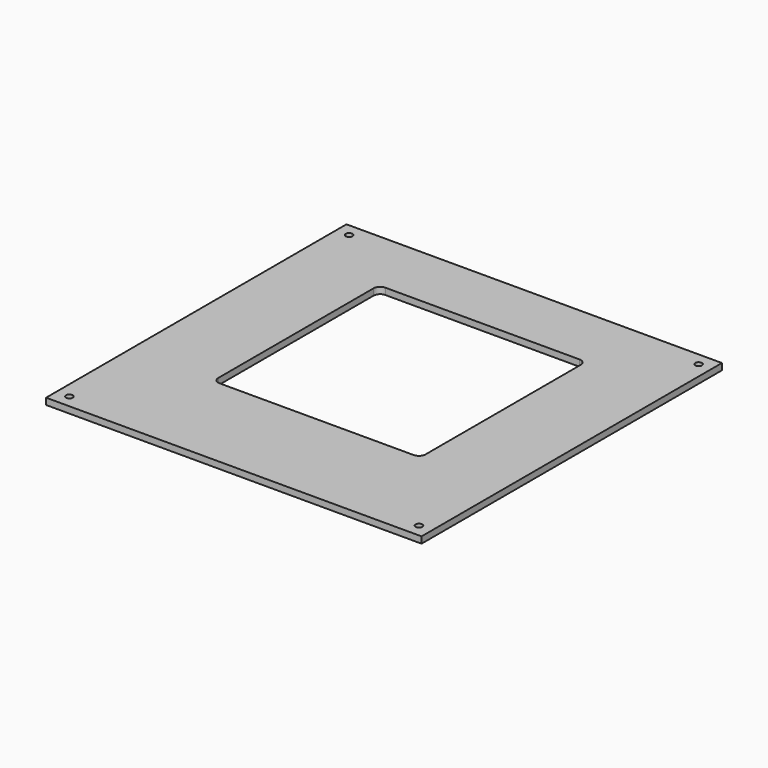
from build123d import *

# Parameters (mm, degrees)
F0_W     = 290
F0_H     = 290
F0_R     = 2.6
F1_DEPTH = 5
F3_DEPTH = 5.001


with BuildPart() as f1:
    # F0 (on Top) → F1 (new body)
    with BuildSketch(Plane.XY):
        Rectangle(F0_W, F0_H)
        with Locations((-135, -135)):
            Circle(F0_R, mode=Mode.SUBTRACT)
        with Locations((135, -135)):
            Circle(F0_R, mode=Mode.SUBTRACT)
        with Locations((-135, 135)):
            Circle(F0_R, mode=Mode.SUBTRACT)
        with Locations((135, 135)):
            Circle(F0_R, mode=Mode.SUBTRACT)
    extrude(amount=F1_DEPTH)

    # F2 (on face) → F3 (cut, through all)
    with BuildSketch(Plane.XY.offset(5)):
        with BuildLine():
            Line((-75, -65), (75, -65))
            ThreePointArc((75, -65), (78.535534, -63.535534), (80, -60))
            Line((80, -60), (80, 90))
            ThreePointArc((80, 90), (78.535534, 93.535534), (75, 95))
            Line((75, 95), (-75, 95))
            ThreePointArc((-75, 95), (-78.535534, 93.535534), (-80, 90))
            Line((-80, 90), (-80, -60))
            ThreePointArc((-80, -60), (-78.535534, -63.535534), (-75, -65))
        make_face()
    extrude(amount=-F3_DEPTH, mode=Mode.SUBTRACT)


solid = f1.part
